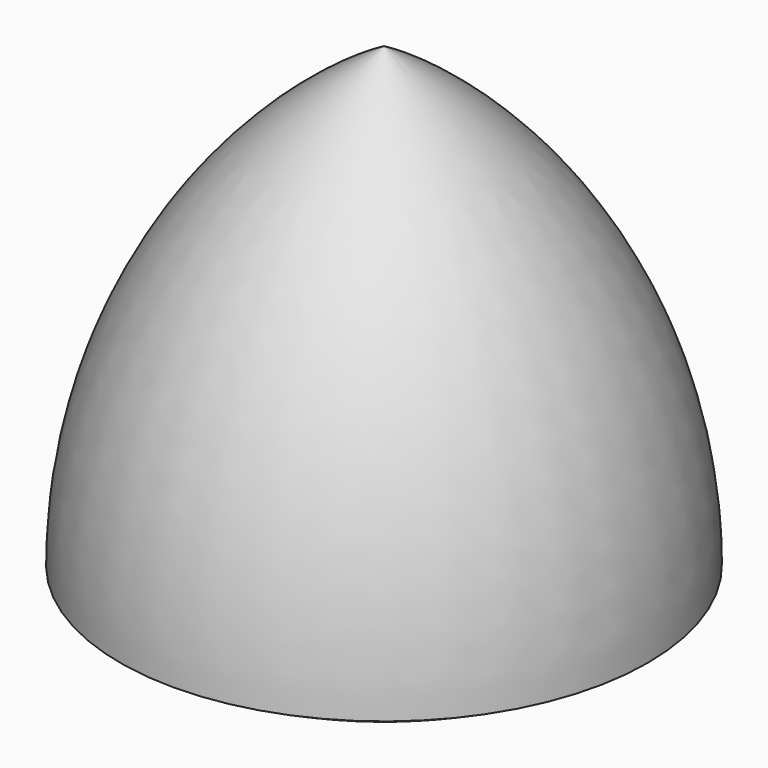
from build123d import *


with BuildPart() as f1:
    # F0 (on Front) → F1 (revolve)
    with BuildSketch(Plane.XZ):
        Polygon((0, -26.1346530169), (45.2665468635, -26.1346530169), (0, 52.2693060338), align=None)
        with BuildLine():
            Line((0, 52.2693060338), (45.2665468635, -26.1346530169))
            ThreePointArc((45.2665468635, -26.1346530169), (33.1374121873, 19.1318938466), (0, 52.2693060338))
        make_face()
        with BuildLine():
            ThreePointArc((0, -38.2637876931), (23.4316888686, -35.1789473309), (45.2665468635, -26.1346530169))
            Line((45.2665468635, -26.1346530169), (0, -26.1346530169))
            Line((0, -26.1346530169), (0, -32.8508205712))
            Line((0, -32.8508205712), (0, -38.2637876931))
        make_face()
    revolve(axis=Axis((0, 0, 3.8690958172), (0, 0, -1)))


solid = f1.part
